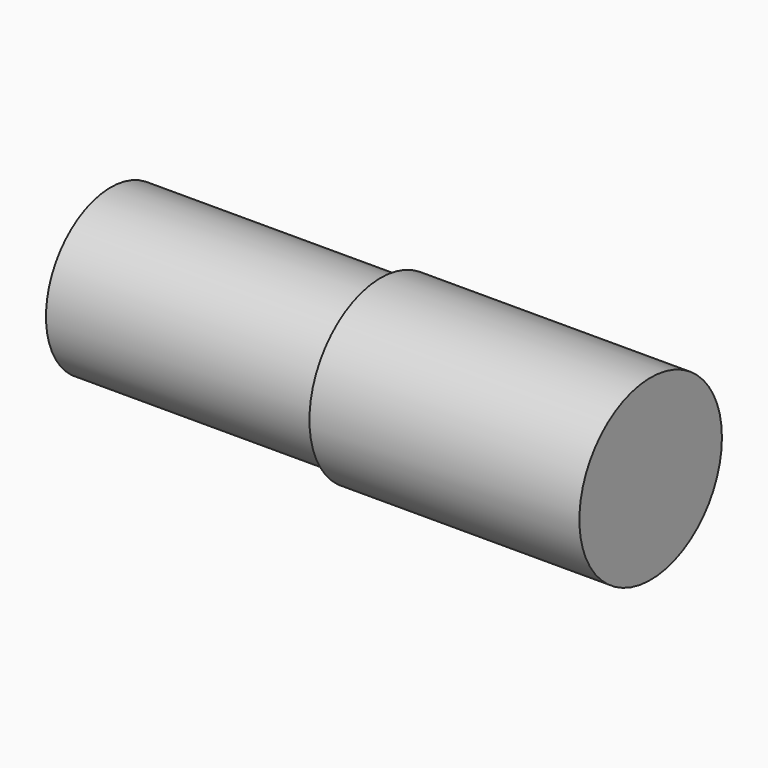
from build123d import *

# Parameters (mm, degrees)
F0_R     = 7.5
F1_DEPTH = 25
F2_R     = 8.25
F3_DEPTH = 25
F4_R     = 1.75
F5_DEPTH = 25


with BuildPart() as f1:
    # F0 (on Right) → F1 (new body)
    with BuildSketch(Plane.YZ):
        Circle(F0_R)
    extrude(amount=F1_DEPTH)

    # F2 (on face) → F3 (join)
    with BuildSketch(Plane.YZ.offset(25)):
        Circle(F2_R)
    extrude(amount=F3_DEPTH)

    # F4 (on Top) → F5 (cut)
    with BuildSketch(Plane.XY):
        with Locations((12.5, 0)):
            Circle(F4_R)
    extrude(amount=-F5_DEPTH, mode=Mode.SUBTRACT)


solid = f1.part
